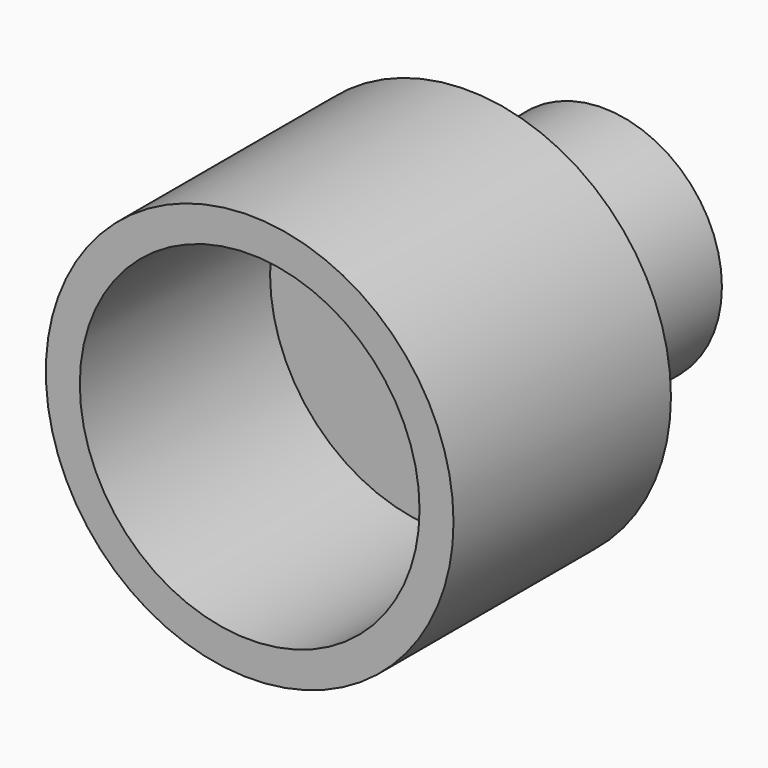
from build123d import *

# Parameters (mm, degrees)
F0_R     = 6
F0_R_2   = 5
F1_DEPTH = 8
F3_R     = 3.5
F3_R_2   = 1.5
F4_DEPTH = 5
F5_R     = 5
F6_DEPTH = 7
F7_R     = 1.5
F8_DEPTH = 25


with BuildPart() as f1:
    # F0 (on Front) → F1 (new body)
    with BuildSketch(Plane.XZ):
        Circle(F0_R)
        Circle(F0_R_2, mode=Mode.SUBTRACT)
        Circle(F0_R_2)
    extrude(amount=-F1_DEPTH)

    # F3 (on offset) → F4 (join)
    with BuildSketch(Plane.XZ.offset(-8)):
        Circle(F3_R)
        Circle(F3_R_2, mode=Mode.SUBTRACT)
        Circle(F3_R_2)
    extrude(amount=-F4_DEPTH)

    # F5 (on Front) → F6 (cut)
    with BuildSketch(Plane.XZ):
        Circle(F5_R)
    extrude(amount=-F6_DEPTH, mode=Mode.SUBTRACT)

    # F7 (on Front) → F8 (cut)
    with BuildSketch(Plane.XZ):
        Circle(F7_R)
    extrude(amount=-F8_DEPTH, mode=Mode.SUBTRACT)


solid = f1.part
